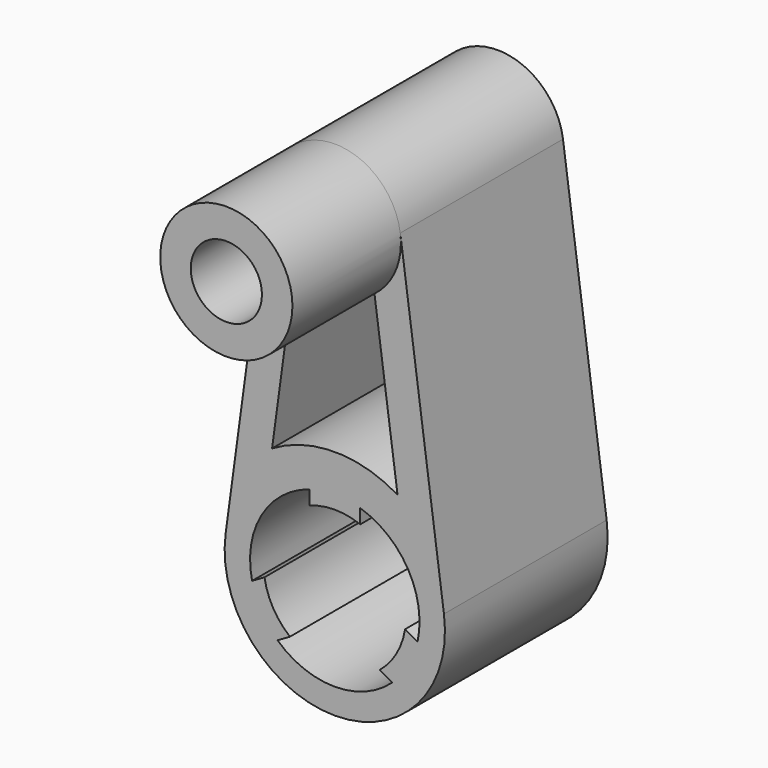
from build123d import *

# Parameters (mm, degrees)
F0_R     = 2.1
F0_R_2   = 1.05
F1_DEPTH = 6
F3_DEPTH = 25
F5_DEPTH = 25
F6_R     = 1.95
F6_R_2   = 1.05
F7_DEPTH = 4


with BuildPart() as f1:
    # F0 (on Front) → F1 (new body)
    with BuildSketch(Plane.XZ):
        with BuildLine():
            Line((-1.9322245482, 9.9126943005), (-3.2203742469, 0.4378238342))
            ThreePointArc((-3.2203742469, 0.4378238342), (0, -3.25), (3.2203742469, 0.4378238342))
            Line((3.2203742469, 0.4378238342), (1.9322245482, 9.9126943005))
            ThreePointArc((1.9322245482, 9.9126943005), (0, 11.6), (-1.9322245482, 9.9126943005))
        make_face()
        Circle(F0_R, mode=Mode.SUBTRACT)
        with Locations((0, 9.65)):
            Circle(F0_R_2, mode=Mode.SUBTRACT)
    extrude(amount=F1_DEPTH)

    # F2 (on face) → F3 (cut)
    with BuildSketch(Plane.XZ.offset(6)):
        with BuildLine():
            ThreePointArc((1.170751587, 8.0905639733), (0, 7.7), (-1.170751587, 8.0905639733))
            Line((-1.170751587, 8.0905639733), (-1.850907083, 3.087740755))
            ThreePointArc((-1.850907083, 3.087740755), (0, 3.6), (1.850907083, 3.087740755))
            Line((1.850907083, 3.087740755), (1.170751587, 8.0905639733))
        make_face()
    extrude(amount=-F3_DEPTH, mode=Mode.SUBTRACT)

    # F4 (on face) → F5 (cut)
    with BuildSketch(Plane.XZ.offset(6)):
        with BuildLine():
            Line((-0.75, 1.9615045246), (-0.75, 2.3848480035))
            ThreePointArc((-0.75, 2.3848480035), (-2.1650635095, 1.25), (-2.4403389552, -0.5429049489))
            Line((-2.4403389552, -0.5429049489), (-2.0737127479, -0.3312332095))
            ThreePointArc((-2.0737127479, -0.3312332095), (-1.8186533479, 1.05), (-0.75, 1.9615045246))
        make_face()
        with BuildLine():
            ThreePointArc((1.3237127479, -1.6302713151), (0, -2.1), (-1.3237127479, -1.6302713151))
            Line((-1.3237127479, -1.6302713151), (-1.6903389552, -1.8419430546))
            ThreePointArc((-1.6903389552, -1.8419430546), (0, -2.5), (1.6903389552, -1.8419430546))
            Line((1.6903389552, -1.8419430546), (1.3237127479, -1.6302713151))
        make_face()
        with BuildLine():
            ThreePointArc((0.75, 1.9615045246), (1.8186533479, 1.05), (2.0737127479, -0.3312332095))
            Line((2.0737127479, -0.3312332095), (2.4403389552, -0.5429049489))
            ThreePointArc((2.4403389552, -0.5429049489), (2.1650635095, 1.25), (0.75, 2.3848480035))
            Line((0.75, 2.3848480035), (0.75, 1.9615045246))
        make_face()
    extrude(amount=-F5_DEPTH, mode=Mode.SUBTRACT)

    # F6 (on face) → F7 (join)
    with BuildSketch(Plane.XZ.offset(6)):
        with Locations((0, 9.65)):
            Circle(F6_R)
        with Locations((0, 9.65)):
            Circle(F6_R_2, mode=Mode.SUBTRACT)
    extrude(amount=F7_DEPTH)


solid = f1.part
